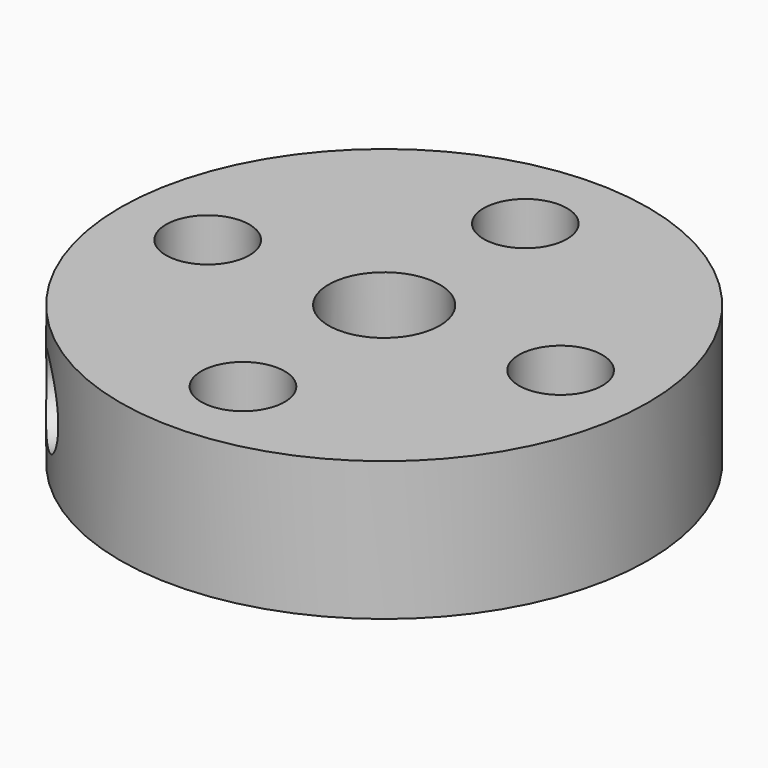
from build123d import *

# Parameters (mm, degrees)
PAD001_DEPTH       = 10
SKETCH007_R        = 1.5
PAD002_DEPTH       = 15
SKETCH_R           = 9.5
PAD_DEPTH          = 5
SKETCH001_R        = 2
POCKET_DEPTH       = 5
SKETCH002_R        = 1.5
POCKET001_DEPTH    = 5
POLARPATTERN_COUNT = 4


with BuildPart() as body001:
    # Sketch006 → Pad001 (new body)
    with BuildSketch(Plane.XY):
        Polygon((-21.213203, 0), (0, -21.213203), (-21.213203, -21.213203), align=None)
    extrude(amount=PAD001_DEPTH)

    # Sketch007 (on Face1 of Pad001) → Pad002 (join)
    with BuildSketch(Plane(origin=(-10.606602, -10.606602, 0), x_dir=(-0.707107, 0.707107, 0), z_dir=(0.707107, 0.707107, 0))):
        with Locations((0, 2.5)):
            Circle(SKETCH007_R)
    extrude(amount=PAD002_DEPTH)


with BuildPart() as body:
    # Sketch → Pad (new body)
    with BuildSketch(Plane.XY):
        Circle(SKETCH_R)
    extrude(amount=PAD_DEPTH)

    # Sketch001 (on Face3 of Pad) → Pocket (cut)
    with BuildSketch(Plane.XY.offset(5)):
        Circle(SKETCH001_R)
    extrude(amount=-POCKET_DEPTH, mode=Mode.SUBTRACT)

    # Sketch002 (on Face3 of Pocket) → Pocket001 (cut)
    with BuildSketch(Plane.XY.offset(5)):
        with Locations((0, 6.35)):
            Circle(SKETCH002_R)
    pocket001 = extrude(amount=-POCKET001_DEPTH, mode=Mode.SUBTRACT)

    # PolarPattern: Pocket001 ×4 about axis
    polarpattern_axis = Axis((0, 0, 5), (0, 0, 1))
    for i in range(1, POLARPATTERN_COUNT):
        add(pocket001.rotate(polarpattern_axis, i * 360 / POLARPATTERN_COUNT), mode=Mode.SUBTRACT)

    # Boolean: cut Body001
    add(body001.part, mode=Mode.SUBTRACT)


solid = body.part
